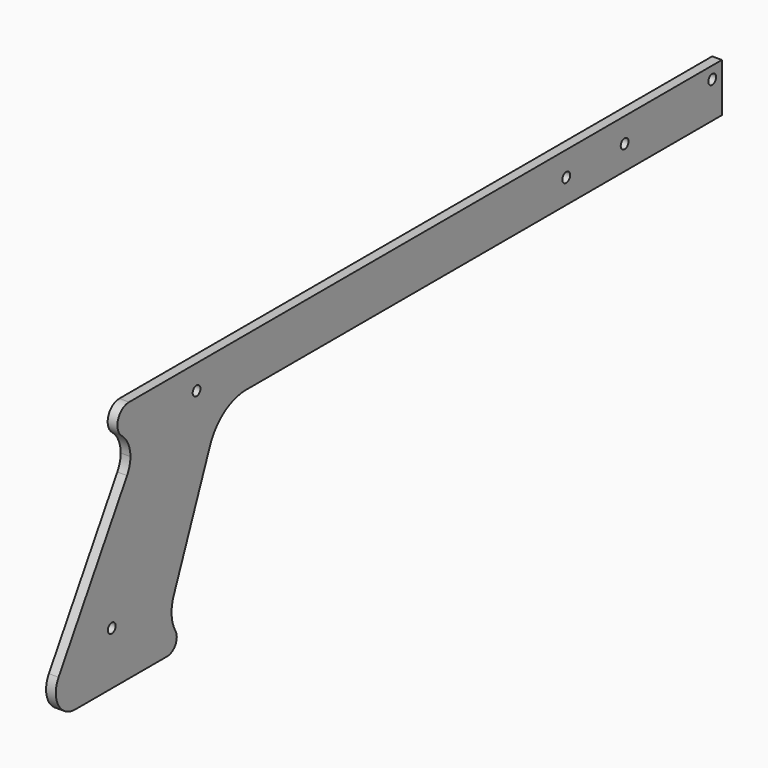
from build123d import *

# Parameters (mm, degrees)
F0_W     = 50.8
F0_H     = 25.4
F0_R     = 2.54
F0_W_2   = 38.1
F1_DEPTH = 5.08


with BuildPart() as f1:
    # F0 (on Right) → F1 (new body)
    with BuildSketch(Plane.YZ):
        with BuildLine():
            ThreePointArc((-615.5142915583, -231.0272213361), (-617.7461378856, -225.6390676635), (-623.1342915583, -223.4072213361))
            ThreePointArc((-623.1342915583, -223.4072213361), (-630.3184964873, -228.4872214272), (-627.9237613392, -236.9538881242))
            ThreePointArc((-627.9237613392, -236.9538881242), (-619.8503426953, -237.9032725187), (-615.5142915583, -231.0272213361))
        make_face()
        with BuildLine():
            Line((-603.4584249114, -347.8283836734), (-604.4899599765, -350.4072213361))
            Line((-604.4899599765, -350.4072213361), (-598.3495273174, -350.4072213361))
            ThreePointArc((-598.3495273174, -350.4072213361), (-601.2109621986, -349.7259681483), (-603.4584249114, -347.8283836734))
        make_face()
        with Locations((-261.5899599765, -236.1072213361)):
            Rectangle(F0_W, F0_H)
        with Locations((-242.5399599765, -229.7572213361)):
            Circle(F0_R, mode=Mode.SUBTRACT)
        with BuildLine():
            ThreePointArc((-645.5593421636, -337.7072213361), (-654.8692854334, -325.4680418144), (-669.1495020637, -331.1731248149))
            ThreePointArc((-669.1495020637, -331.1731248149), (-669.3108811021, -343.9644960696), (-658.2593421636, -350.4072213361))
            ThreePointArc((-658.2593421636, -350.4072213361), (-649.2790860425, -346.6874774572), (-645.5593421636, -337.7072213361))
        make_face()
        Polygon((-553.6899599765, -223.4072213361), (-604.4899599765, -223.4072213361), (-604.4899599765, -248.8072213361), (-563.8499599765, -248.8072213361), align=None)
        with Locations((-579.0899599765, -236.1072213361)):
            Circle(F0_R, mode=Mode.SUBTRACT)
        with Locations((-306.0399599765, -236.1072213361)):
            Rectangle(F0_W_2, F0_H)
        with Locations((-299.6899599765, -236.1072213361)):
            Circle(F0_R, mode=Mode.SUBTRACT)
        with BuildLine():
            Line((-546.6533227562, -248.8072213361), (-563.8499599765, -248.8072213361))
            Line((-563.8499599765, -248.8072213361), (-570.2366308991, -264.7738986426))
            ThreePointArc((-570.2366308991, -264.7738986426), (-560.8932947292, -253.1743138289), (-546.6533227562, -248.8072213361))
        make_face()
        with BuildLine():
            Line((-624.4345095354, -256.6481372677), (-604.4899599765, -223.4072213361))
            Line((-604.4899599765, -223.4072213361), (-623.1342915583, -223.4072213361))
            ThreePointArc((-623.1342915583, -223.4072213361), (-617.7461378856, -225.6390676635), (-615.5142915583, -231.0272213361))
            ThreePointArc((-615.5142915583, -231.0272213361), (-619.8503426953, -237.9032725187), (-627.9237613392, -236.9538881242))
            ThreePointArc((-627.9237613392, -236.9538881242), (-623.7505988619, -242.2393238717), (-622.262701352, -248.8072213361))
            ThreePointArc((-622.262701352, -248.8072213361), (-622.8156859424, -252.875289472), (-624.4345095354, -256.6481372677))
        make_face()
        with BuildLine():
            ThreePointArc((-592.8502662757, -340.8822208645), (-595.3537457832, -332.7190131593), (-594.0399626484, -324.2822280158))
            Line((-594.0399626484, -324.2822280158), (-599.4482722391, -337.8030019926))
            ThreePointArc((-599.4482722391, -337.8030019926), (-595.6640976039, -338.3030083357), (-592.8502662757, -340.8822208645))
        make_face()
        Polygon((-325.0899599765, -223.4072213361), (-553.6899599765, -223.4072213361), (-563.8499599765, -248.8072213361), (-546.6533227562, -248.8072213361), (-325.0899599765, -248.8072213361), align=None)
        with Locations((-337.7899599765, -236.1072213361)):
            Circle(F0_R, mode=Mode.SUBTRACT)
        with BuildLine():
            ThreePointArc((-592.8502662757, -340.8822208645), (-595.6640976039, -338.3030083357), (-599.4482722391, -337.8030019926))
            Line((-599.4482722391, -337.8030019926), (-603.4584249114, -347.8283836734))
            ThreePointArc((-603.4584249114, -347.8283836734), (-601.2109621986, -349.7259681483), (-598.3495273174, -350.4072213361))
            ThreePointArc((-598.3495273174, -350.4072213361), (-593.8593992569, -348.5473493967), (-591.9995273174, -344.0572213361))
            ThreePointArc((-591.9995273174, -344.0572213361), (-592.215898391, -342.4137201367), (-592.8502662757, -340.8822208645))
        make_face()
        with BuildLine():
            Line((-604.4899599765, -248.8072213361), (-604.4899599765, -223.4072213361))
            Line((-604.4899599765, -223.4072213361), (-624.4345095354, -256.6481372677))
            Line((-624.4345095354, -256.6481372677), (-669.1495020637, -331.1731248149))
            ThreePointArc((-669.1495020637, -331.1731248149), (-654.8692854334, -325.4680418144), (-645.5593421636, -337.7072213361))
            ThreePointArc((-645.5593421636, -337.7072213361), (-649.2790860425, -346.6874774572), (-658.2593421636, -350.4072213361))
            Line((-658.2593421636, -350.4072213361), (-604.4899599765, -350.4072213361))
            Line((-604.4899599765, -350.4072213361), (-603.4584249114, -347.8283836734))
            ThreePointArc((-603.4584249114, -347.8283836734), (-604.2453543046, -341.6988905413), (-599.4482722391, -337.8030019926))
            Line((-599.4482722391, -337.8030019926), (-594.0399626484, -324.2822280158))
            Line((-594.0399626484, -324.2822280158), (-570.2366308991, -264.7738986426))
            Line((-570.2366308991, -264.7738986426), (-563.8499599765, -248.8072213361))
            Line((-563.8499599765, -248.8072213361), (-604.4899599765, -248.8072213361))
        make_face()
        with Locations((-634.4372987192, -322.688178617)):
            Circle(F0_R, mode=Mode.SUBTRACT)
        with BuildLine():
            Line((-603.4584249114, -347.8283836734), (-599.4482722391, -337.8030019926))
            ThreePointArc((-599.4482722391, -337.8030019926), (-604.2453543046, -341.6988905413), (-603.4584249114, -347.8283836734))
        make_face()
        with Locations((-261.5899599765, -236.1072213361)):
            Rectangle(F0_W, F0_H)
        with Locations((-242.5399599765, -229.7572213361)):
            Circle(F0_R, mode=Mode.SUBTRACT)
    extrude(amount=F1_DEPTH)


solid = f1.part
